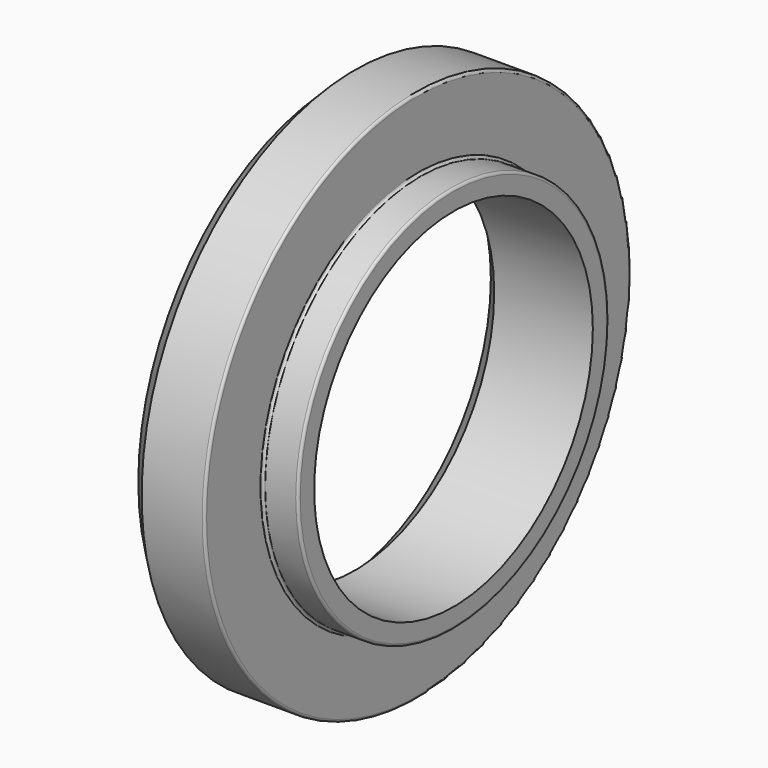
from build123d import *

# Parameters (mm, degrees)
F2_SIZE = 0.8
F3_R    = 0.12


with BuildPart() as f1:
    # F0 (on Top) → F1 (revolve)
    with BuildSketch(Plane.XY):
        Polygon((-15.994198, 12.7), (-19.794198, 12.7), (-19.794198, 8.3), (-14.294198, 8.3), (-14.294198, 9.25), (-15.994198, 9.25), align=None)
    revolve(axis=Axis((-19.380304, 0, 0), (1, 0, 0)))

    # F2
    f2_edges = [f1.edges().sort_by_distance(p)[0] for p in [
        (-19.794198, -8.3, 0),
        (-19.794198, -12.7, 0),
    ]]
    chamfer(f2_edges, length=F2_SIZE)

    # F3
    f3_edges = [f1.edges().sort_by_distance(p)[0] for p in [
        (-15.994198, -9.25, 0),
        (-14.294198, -9.25, 0),
        (-15.994198, -12.7, 0),
    ]]
    fillet(f3_edges, radius=F3_R)


solid = f1.part
